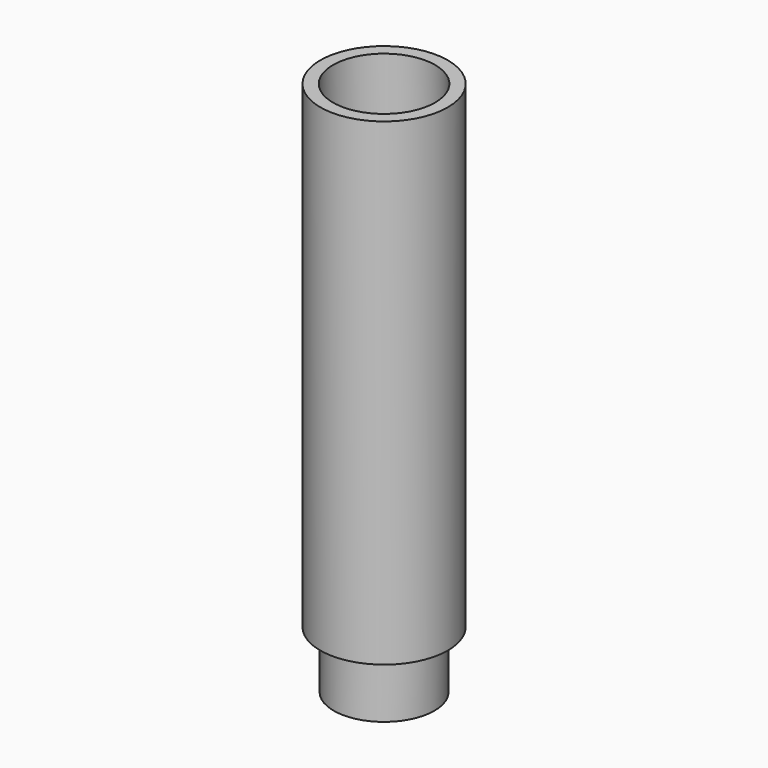
from build123d import *

# Parameters (mm, degrees)
F0_R     = 10
F0_R_2   = 7.9
F1_DEPTH = 75
F2_DEPTH = 9
F3_R     = 8
F4_DEPTH = 10


with BuildPart() as f1:
    # F0 (on Top) → F1 (new body)
    with BuildSketch(Plane.XY):
        Circle(F0_R)
        Circle(F0_R_2, mode=Mode.SUBTRACT)
        Circle(F0_R_2)
    extrude(amount=F1_DEPTH)

    # F0 (on Top) → F2 (join)
    with BuildSketch(Plane.XY):
        Circle(F0_R_2)
    extrude(amount=-F2_DEPTH)

    # F3 (on face) → F4 (cut)
    with BuildSketch(Plane.XY.offset(75)):
        Circle(F3_R)
    extrude(amount=-F4_DEPTH, mode=Mode.SUBTRACT)


solid = f1.part
